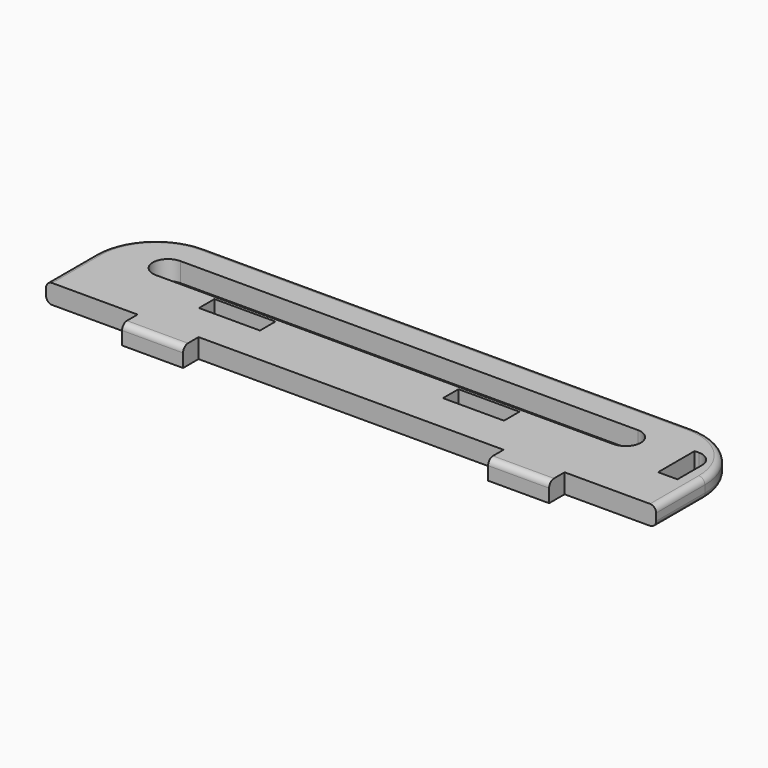
from build123d import *

# Parameters (mm, degrees)
F0_W     = 20
F0_H     = 6.35
F1_DEPTH = 6.35
F2_R     = 2


with BuildPart() as f1:
    # F0 (on Top) → F1 (new body)
    with BuildSketch(Plane.XY):
        with BuildLine():
            Line((82.144191, 9.406758), (-77.855809, 9.406758))
            ThreePointArc((-77.855809, 9.406758), (-91.997944, 3.548894), (-97.855809, -10.593242))
            Line((-97.855809, -10.593242), (-97.855809, -30.593242))
            Line((-97.855809, -30.593242), (-67.855809, -30.593242))
            Line((-67.855809, -30.593242), (-47.855809, -30.593242))
            Line((-47.855809, -30.593242), (52.144191, -30.593242))
            Line((52.144191, -30.593242), (72.144191, -30.593242))
            Line((72.144191, -30.593242), (102.144191, -30.593242))
            Line((102.144191, -30.593242), (102.144191, -10.593242))
            ThreePointArc((102.144191, -10.593242), (96.286327, 3.548894), (82.144191, 9.406758))
        make_face()
        with Locations((-47.855809, -14.768242)):
            Rectangle(F0_W, F0_H, mode=Mode.SUBTRACT)
        with Locations((32.144191, -14.768242)):
            Rectangle(F0_W, F0_H, mode=Mode.SUBTRACT)
        with BuildLine():
            ThreePointArc((-77.855809, -10.593242), (-82.855809, -5.593242), (-77.855809, -0.593242))
            Line((-77.855809, -0.593242), (72.144191, -0.593242))
            ThreePointArc((72.144191, -0.593242), (75.679725, -2.057708), (77.144191, -5.593242))
            ThreePointArc((77.144191, -5.593242), (75.679725, -9.128776), (72.144191, -10.593242))
            Line((72.144191, -10.593242), (-77.855809, -10.593242))
        make_face(mode=Mode.SUBTRACT)
        with BuildLine():
            Line((90.794191, -15.593242), (90.794191, -0.593242))
            Line((90.794191, -0.593242), (92.144191, -0.593242))
            ThreePointArc((92.144191, -0.593242), (95.679725, -2.057708), (97.144191, -5.593242))
            Line((97.144191, -5.593242), (97.144191, -15.593242))
            Line((97.144191, -15.593242), (90.794191, -15.593242))
        make_face(mode=Mode.SUBTRACT)
        with Locations((-57.855809, -33.768242)):
            Rectangle(F0_W, F0_H)
        with Locations((62.144191, -33.768242)):
            Rectangle(F0_W, F0_H)
    extrude(amount=F1_DEPTH)

    # F2
    f2_edges = [f1.edges().sort_by_distance(p)[0] for p in [
        (-57.855809, -36.943242, 6.35),
        (62.144191, -36.943242, 6.35),
        (-91.997944, 3.548894, 6.35),
        (2.144191, 9.406758, 0),
    ]]
    fillet(f2_edges, radius=F2_R)


solid = f1.part
